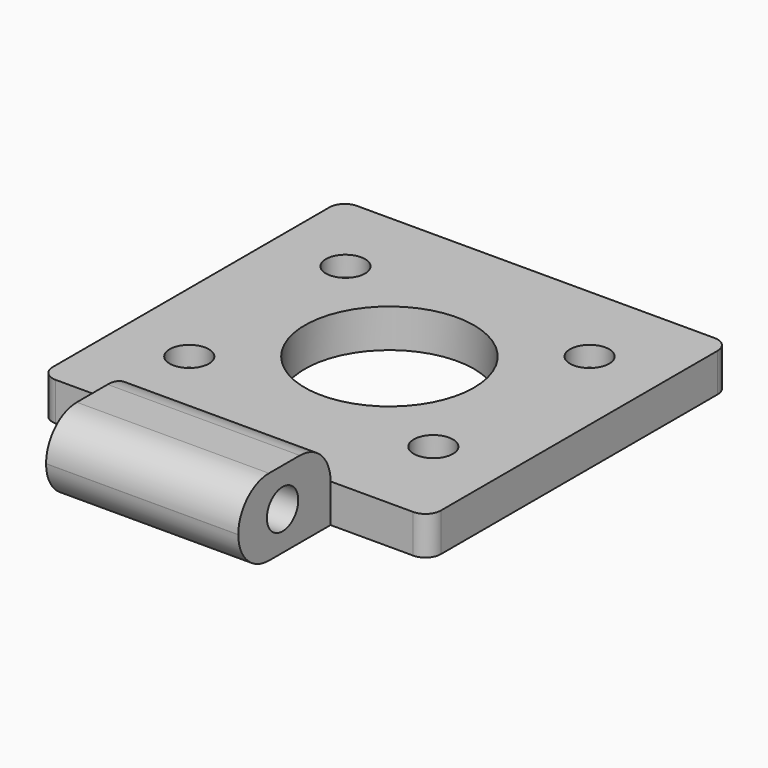
from build123d import *

# Parameters (mm, degrees)
SKETCH_W      = 50.5
SKETCH_H      = 49
SKETCH_R      = 11
SKETCH_R_2    = 2.55
PAD_DEPTH     = 5
SKETCH001_W   = 25
SKETCH001_H   = 15
PAD001_DEPTH  = 10
SKETCH002_R   = 2.55
POCKET_DEPTH  = 12.5
FILLET_R      = 4.99
FILLET001_R   = 2
CHAMFER_ANGLE = 50
CHAMFER_SIZE  = 2


with BuildPart() as part:
    # Sketch → Pad (new body)
    with BuildSketch(Plane.XY):
        with Locations((0, -0.7)):
            Rectangle(SKETCH_W, SKETCH_H)
        Circle(SKETCH_R, mode=Mode.SUBTRACT)
        with Locations((-15.875, 12.7)):
            Circle(SKETCH_R_2, mode=Mode.SUBTRACT)
        with Locations((15.875, 12.7)):
            Circle(SKETCH_R_2, mode=Mode.SUBTRACT)
        with Locations((15.875, -12.7)):
            Circle(SKETCH_R_2, mode=Mode.SUBTRACT)
        with Locations((-15.875, -12.7)):
            Circle(SKETCH_R_2, mode=Mode.SUBTRACT)
    extrude(amount=PAD_DEPTH)

    # Sketch001 → Pad001 (join)
    with BuildSketch(Plane.XY):
        with Locations((0, -32.7)):
            Rectangle(SKETCH001_W, SKETCH001_H)
    extrude(amount=PAD001_DEPTH)

    # Sketch002 → Pocket (cut, symmetric)
    with BuildSketch(Plane.YZ):
        with Locations((-33, 5)):
            Circle(SKETCH002_R)
    extrude(amount=POCKET_DEPTH, both=True, mode=Mode.SUBTRACT)

    # Fillet
    fillet_edges = [part.edges().sort_by_distance(p)[0] for p in [
        (0, -25.2, 10),
        (0, -40.2, 10),
        (0, -40.2, 0),
    ]]
    fillet(fillet_edges, radius=FILLET_R)

    # Fillet001
    fillet001_edges = [part.edges().sort_by_distance(p)[0] for p in [
        (25.25, 23.8, 2.5),
        (25.25, -25.2, 2.5),
        (-25.25, 23.8, 2.5),
        (-25.25, -25.2, 2.5),
    ]]
    fillet(fillet001_edges, radius=FILLET001_R)

    # Chamfer
    chamfer_edges = [part.edges().sort_by_distance(p)[0] for p in [
        (-18.425, 12.7, 0),
        (-18.425, -12.7, 0),
        (13.325, -12.7, 0),
        (13.325, 12.7, 0),
    ]]
    chamfer_side = part.faces().sort_by_distance((0, 23.096349, 0))[0]
    chamfer(chamfer_edges, length=CHAMFER_SIZE, angle=CHAMFER_ANGLE, reference=chamfer_side)


solid = part.part
